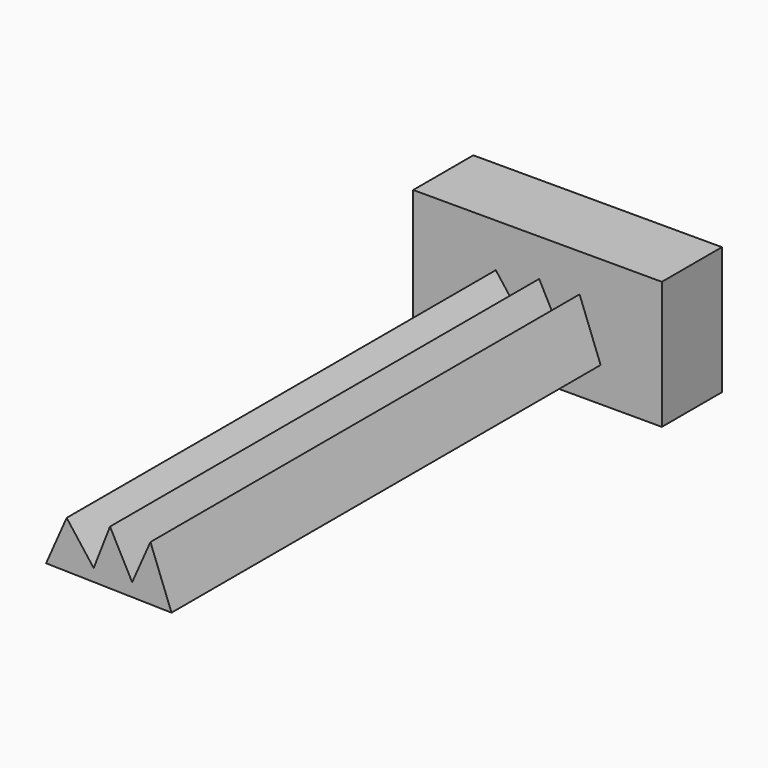
from build123d import *

# Parameters (mm, degrees)
F1_DEPTH      = 150
F2_W          = 64.235858
F2_H          = 19.400093
F3_DEPTH      = 17
F3_DEPTH_BACK = 16


with BuildPart() as f1:
    # F0 (on Front) → F1 (new body)
    with BuildSketch(Plane.XZ):
        Polygon((-11.211432, 5.705079), (-16.532733, -6.356537), (15.868079, -7.066044), (10.428526, 7.242345), (5.698481, -3.44145), (-0.016305, 7.358057), (-4.234615, -3.44145), align=None)
    extrude(amount=F1_DEPTH)

    # F2 (on Top) → F3 (join, two sides)
    with BuildSketch(Plane.XY) as f3_sk:
        with Locations((-0.431113, -1.717609)):
            Rectangle(F2_W, F2_H)
    extrude(amount=F3_DEPTH)
    extrude(f3_sk.sketch, amount=-F3_DEPTH_BACK)


solid = f1.part
